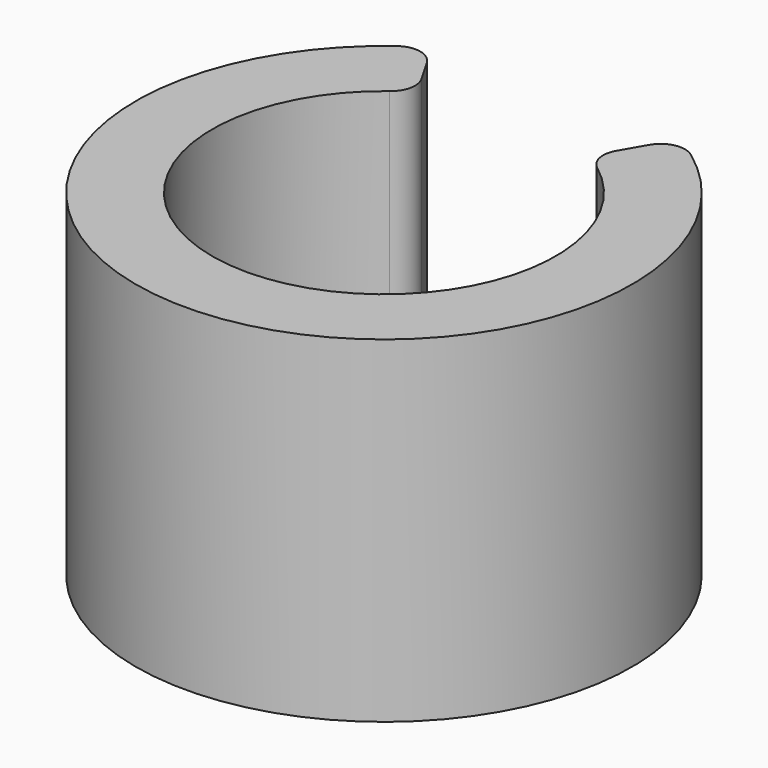
from build123d import *

# Parameters (mm, degrees)
F0_R     = 5.159375
F0_R_2   = 3.571875
F1_DEPTH = 7
F3_DEPTH = 7.001
F4_R     = 0.508


with BuildPart() as f1:
    # F0 (on Top) → F1 (new body)
    with BuildSketch(Plane.XY):
        Circle(F0_R)
        Circle(F0_R_2, mode=Mode.SUBTRACT)
    extrude(amount=F1_DEPTH)

    # F2 (on Top) → F3 (cut, through all)
    with BuildSketch(Plane.XY):
        Polygon((-2.978767, 5.159375), (0, 0), (2.978767, 5.159375), align=None)
    extrude(amount=F3_DEPTH, mode=Mode.SUBTRACT)

    # F4
    f4_edges = [f1.edges().sort_by_distance(p)[0] for p in [
        (1.785938, 3.093334, 3.5),
        (-1.785937, 3.093334, 3.5),
        (-2.579687, 4.46815, 3.5),
        (2.579688, 4.46815, 3.5),
    ]]
    fillet(f4_edges, radius=F4_R)


solid = f1.part
